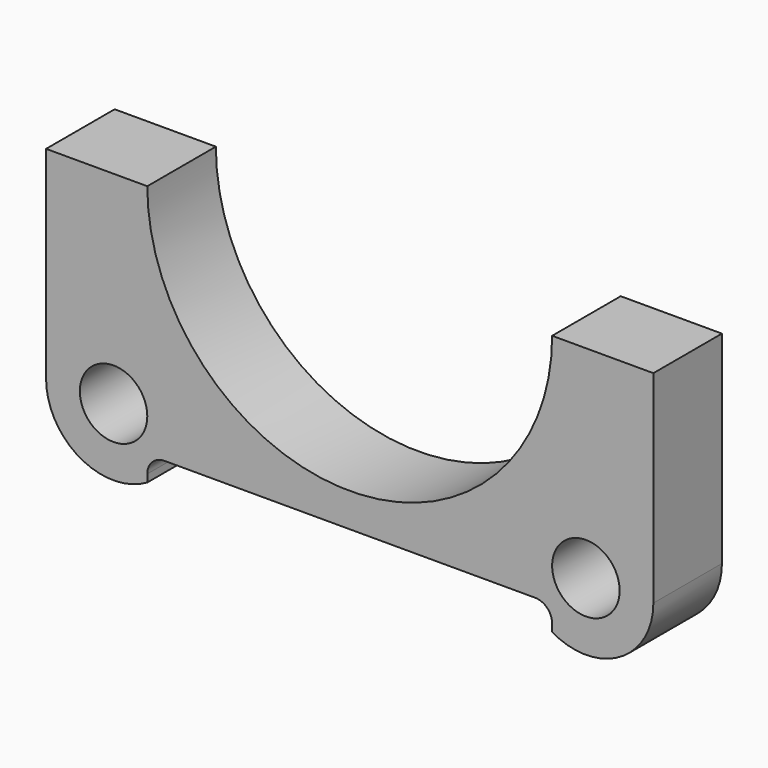
from build123d import *

# Parameters (mm, degrees)
F0_R     = 10
F1_DEPTH = 12.7


with BuildPart() as f1:
    # F0 (on Front) → F1 (new body, symmetric)
    with BuildSketch(Plane.XZ):
        with BuildLine():
            ThreePointArc((60, 0), (0, -60), (-60, 0))
            Line((-60, 0), (-90, 0))
            Line((-90, 0), (-90, -60))
            ThreePointArc((-90, -60), (-80, -77.320508), (-60, -77.320508))
            Line((-60, -77.320508), (-60, -75.08))
            ThreePointArc((-60, -75.08), (-58.512102, -71.487898), (-54.92, -70))
            Line((-54.92, -70), (0, -70))
            Line((0, -70), (54.92, -70))
            ThreePointArc((54.92, -70), (58.512102, -71.487898), (60, -75.08))
            Line((60, -75.08), (60, -77.320508))
            ThreePointArc((60, -77.320508), (80, -77.320508), (90, -60))
            Line((90, -60), (90, 0))
            Line((90, 0), (60, 0))
        make_face()
        with Locations((-70, -60)):
            Circle(F0_R, mode=Mode.SUBTRACT)
        with Locations((70, -60)):
            Circle(F0_R, mode=Mode.SUBTRACT)
    extrude(amount=F1_DEPTH, both=True)


solid = f1.part
